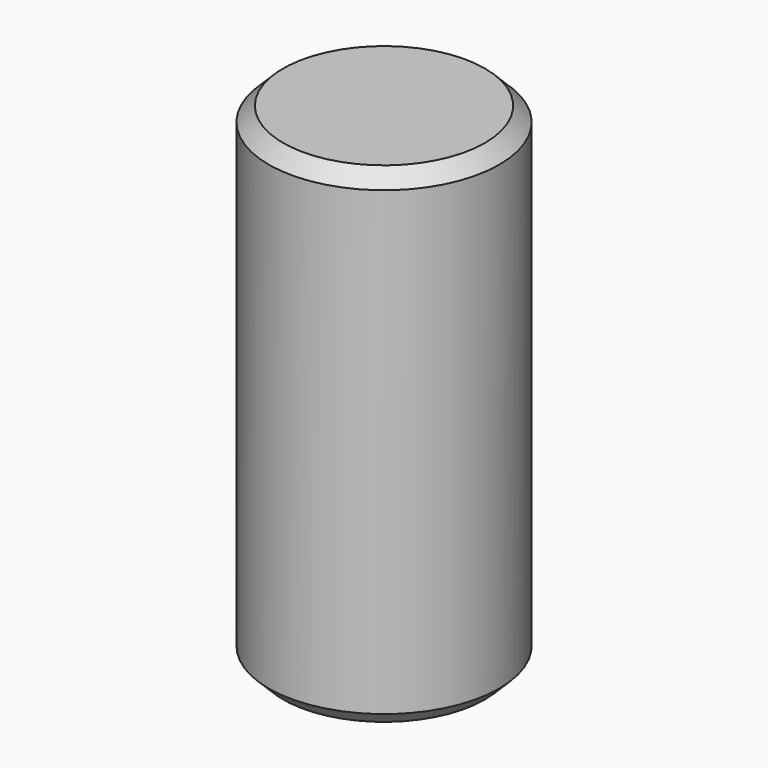
from build123d import *

# Parameters (mm, degrees)
F0_R     = 4
F1_DEPTH = 8.5
F2_SIZE  = 0.5


with BuildPart() as f1:
    # F0 (on Top) → F1 (new body, symmetric)
    with BuildSketch(Plane.XY):
        Circle(F0_R)
    extrude(amount=F1_DEPTH, both=True)

    # F2
    f2_edges = [f1.edges().sort_by_distance(p)[0] for p in [
        (-4, 0, 8.5),
        (-4, 0, -8.5),
    ]]
    chamfer(f2_edges, length=F2_SIZE)


solid = f1.part
